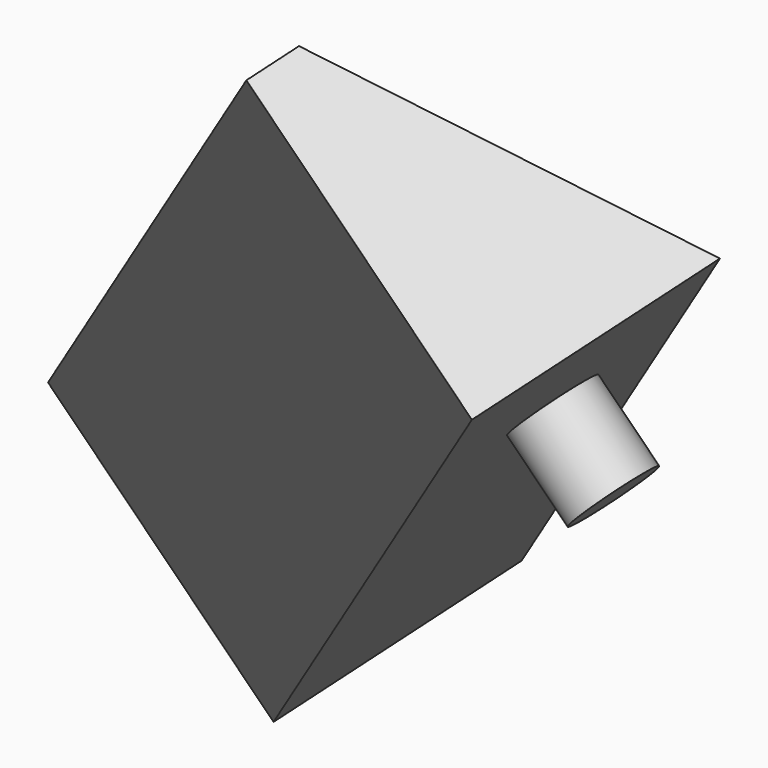
from build123d import *

# Parameters (mm, degrees)
PAD001_DEPTH            = 150
SKETCH001_R             = 7.5
PAD_DEPTH               = 15
SKETCH003_R             = 7.5
POCKET003_DEPTH         = 15
BODY005_PLACEMENT_ANGLE = 270


with BuildPart() as part:
    # Sketch002 (on DatumPlane) → Pad001 (new body, symmetric)
    with BuildSketch(Plane(origin=(0, -50, 50), x_dir=(0.816497, -0.408248, -0.408248), z_dir=(-0.57735, -0.57735, -0.57735))):
        Polygon((0, 0), (0, 55.710678), (-8.660254, 55.710678), (-40.824829, 0), align=None)
    extrude(amount=PAD001_DEPTH, both=True)

    # Sketch001 (on Face7 of Binder001) → Pad (join)
    with BuildSketch(Plane(origin=(0, -50, 50), x_dir=(1, 0, 0), z_dir=(0, -0.707107, 0.707107))):
        with Locations((32.196959, 80.888716)):
            Circle(SKETCH001_R)
    extrude(amount=-PAD_DEPTH)

    # Sketch003 (on Face6 of Pad) → Pocket003 (cut)
    with BuildSketch(Plane(origin=(-25, -50, 75), x_dir=(-0.408248, 0.816497, -0.408248), z_dir=(-0.707107, 0, 0.707107))):
        with Locations((-11.75216, -47.456286)):
            Circle(SKETCH003_R)
    extrude(amount=-POCKET003_DEPTH, mode=Mode.SUBTRACT)


with BuildPart() as part_1:
    # Body005 placement: moved
    add(part.part.rotate(Axis((0, 0, 0), (0, 0, 1)), BODY005_PLACEMENT_ANGLE))


solid = part_1.part
